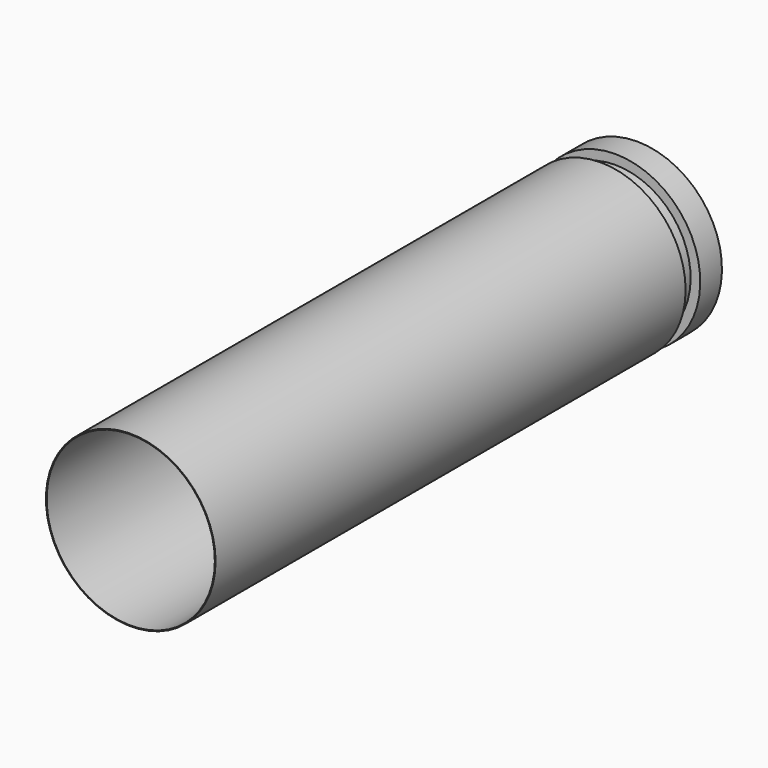
from build123d import *

# Parameters (mm, degrees)
F2_R     = 7.465
F2_R_2   = 7.4
F3_DEPTH = 51.7
F4_R     = 1.720525
F5_DEPTH = 2
F6_R     = 0.31391
F7_DEPTH = 54.198547


with BuildPart() as f1:
    # F0 (on Right) → F1 (revolve)
    with BuildSketch(Plane.YZ):
        Polygon((-4.497547, 0), (0, 0), (0, 6.62), (-0.5, 7.465), (-2.890516, 7.465), (-2.890516, 6.62), (-3.790516, 6.62), (-4.497547, 7.465), align=None)
    revolve(axis=Axis((0, -2.248773, 0), (0, 1, 0)))

    # F2 (on face) → F3 (join)
    with BuildSketch(Plane.XZ.offset(4.497547)):
        Circle(F2_R)
        Circle(F2_R_2, mode=Mode.SUBTRACT)
    extrude(amount=F3_DEPTH)

    # F4 (on face) → F5 (cut)
    with BuildSketch(Plane(origin=(0, 0, 0), x_dir=(-1, 0, 0), z_dir=(0, 1, 0))):
        Circle(F4_R)
    extrude(amount=-F5_DEPTH, mode=Mode.SUBTRACT)

    # F6 (on face) → F7 (cut, through all)
    with BuildSketch(Plane(origin=(0, -2, 0), x_dir=(-1, 0, 0), z_dir=(0, 1, 0))):
        Circle(F6_R)
    extrude(amount=-F7_DEPTH, mode=Mode.SUBTRACT)


solid = f1.part
